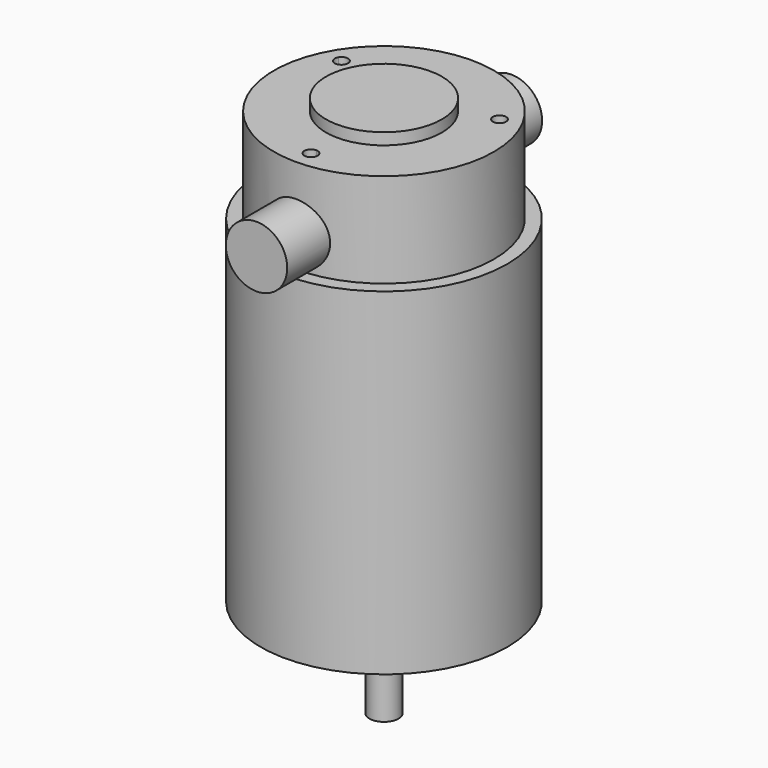
from build123d import *

# Parameters (mm, degrees)
F0_R      = 27.0383
F1_DEPTH  = 73.914
F2_R      = 24.13
F3_DEPTH  = 20.7264
F4_R      = 12.7
F5_DEPTH  = 2.54
F6_R      = 12.7
F6_R_2    = 4.699
F7_DEPTH  = 2.54
F8_R      = 3.175
F9_DEPTH  = 21.59
F10_R     = 6.731
F11_DEPTH = 34.925
F13_DEPTH = 6.35
F15_DEPTH = 12.7


with BuildPart() as f1:
    # F0 (on Top) → F1 (new body)
    with BuildSketch(Plane.XY):
        Circle(F0_R)
    extrude(amount=F1_DEPTH)

    # F2 (on face) → F3 (join)
    with BuildSketch(Plane.XY.offset(73.914)):
        Circle(F2_R)
    extrude(amount=F3_DEPTH)

    # F4 (on face) → F5 (join)
    with BuildSketch(Plane.XY.offset(94.6404)):
        Circle(F4_R)
    extrude(amount=F5_DEPTH)

    # F6 (on face) → F7 (join)
    with BuildSketch(Plane(origin=(0, 0, 0), x_dir=(1, 0, 0), z_dir=(0, 0, -1))):
        Circle(F6_R)
        Circle(F6_R_2, mode=Mode.SUBTRACT)
    extrude(amount=F7_DEPTH)

    # F8 (on face) → F9 (join)
    with BuildSketch(Plane(origin=(0, 0, 0), x_dir=(1, 0, 0), z_dir=(0, 0, -1))):
        Circle(F8_R)
    extrude(amount=F9_DEPTH)

    # F10 (on Front) → F11 (join, symmetric)
    with BuildSketch(Plane.XZ):
        with Locations((0, 80.772)):
            Circle(F10_R)
    extrude(amount=F11_DEPTH, both=True)

    # F12 (on face) → F13 (cut)
    with BuildSketch(Plane.XY.offset(94.6404)):
        with BuildLine():
            ThreePointArc((-15.8748731392, 10.00125), (-16.9479549257, 11.3997174113), (-18.5765047188, 10.72515))
            Line((-18.5765047188, 10.72515), (-16.0688415596, 9.27735))
            ThreePointArc((-16.0688415596, 9.27735), (-15.9242057279, 9.6265317865), (-15.8748731392, 10.00125))
        make_face()
        with BuildLine():
            Line((-16.0688415596, 9.27735), (-18.5765047188, 10.72515))
            ThreePointArc((-18.5765047188, 10.72515), (-18.0465731392, 8.7474184204), (-16.0688415596, 9.27735))
        make_face()
        with BuildLine():
            Line((0, -18.5547), (0, -21.4503))
            ThreePointArc((0, -21.4503), (1.0237491978, -21.0262491978), (1.4478, -20.0025))
            ThreePointArc((1.4478, -20.0025), (1.0237491978, -18.9787508022), (0, -18.5547))
        make_face()
        with BuildLine():
            ThreePointArc((0, -18.5547), (-1.4478, -20.0025), (0, -21.4503))
            Line((0, -21.4503), (0, -18.5547))
        make_face()
        with BuildLine():
            Line((16.0688415596, 9.27735), (18.5765047188, 10.72515))
            ThreePointArc((18.5765047188, 10.72515), (16.5987731392, 11.2550815796), (16.0688415596, 9.27735))
        make_face()
        with BuildLine():
            ThreePointArc((18.7704731392, 10.00125), (18.7211405505, 10.3759682135), (18.5765047188, 10.72515))
            Line((18.5765047188, 10.72515), (16.0688415596, 9.27735))
            ThreePointArc((16.0688415596, 9.27735), (17.6973913527, 8.6027825887), (18.7704731392, 10.00125))
        make_face()
    extrude(amount=-F13_DEPTH, mode=Mode.SUBTRACT)

    # F14 (on face) → F15 (cut)
    with BuildSketch(Plane(origin=(0, 0, 0), x_dir=(1, 0, 0), z_dir=(0, 0, -1))):
        with BuildLine():
            ThreePointArc((14.7363675327, 13.2666150431), (13.3965175327, 14.6064650431), (12.0566675327, 13.2666150431))
            Line((12.0566675327, 13.2666150431), (13.3965175327, 13.2666150431))
            Line((13.3965175327, 13.2666150431), (13.3965175327, 11.9267650431))
            ThreePointArc((13.3965175327, 11.9267650431), (14.3439345535, 12.3191980223), (14.7363675327, 13.2666150431))
        make_face()
        with BuildLine():
            Line((13.3965175327, 13.2666150431), (12.0566675327, 13.2666150431))
            ThreePointArc((12.0566675327, 13.2666150431), (12.4491005119, 12.3191980223), (13.3965175327, 11.9267650431))
            Line((13.3965175327, 11.9267650431), (13.3965175327, 13.2666150431))
        make_face()
        with BuildLine():
            ThreePointArc((14.7363675327, -13.6573849569), (14.3439345535, -12.7099679361), (13.3965175327, -12.3175349569))
            Line((13.3965175327, -12.3175349569), (13.3965175327, -13.6573849569))
            Line((13.3965175327, -13.6573849569), (12.0566675327, -13.6573849569))
            ThreePointArc((12.0566675327, -13.6573849569), (13.3965175327, -14.9972349569), (14.7363675327, -13.6573849569))
        make_face()
        with BuildLine():
            Line((13.3965175327, -13.6573849569), (13.3965175327, -12.3175349569))
            ThreePointArc((13.3965175327, -12.3175349569), (12.4491005119, -12.7099679361), (12.0566675327, -13.6573849569))
            Line((12.0566675327, -13.6573849569), (13.3965175327, -13.6573849569))
        make_face()
        with BuildLine():
            Line((-12.1812824673, 13.2666150431), (-13.5274824673, 13.2666150431))
            Line((-13.5274824673, 13.2666150431), (-13.5274824673, 11.9204150431))
            ThreePointArc((-13.5274824673, 11.9204150431), (-12.5755753185, 12.3147078943), (-12.1812824673, 13.2666150431))
        make_face()
        with BuildLine():
            Line((-13.5274824673, 11.9204150431), (-13.5274824673, 13.2666150431))
            Line((-13.5274824673, 13.2666150431), (-12.1812824673, 13.2666150431))
            ThreePointArc((-12.1812824673, 13.2666150431), (-14.4793896162, 14.2185221919), (-13.5274824673, 11.9204150431))
        make_face()
        with BuildLine():
            ThreePointArc((-12.1876324673, -13.6573849569), (-12.5800654465, -12.7099679361), (-13.5274824673, -12.3175349569))
            Line((-13.5274824673, -12.3175349569), (-13.5274824673, -13.6573849569))
            Line((-13.5274824673, -13.6573849569), (-12.1876324673, -13.6573849569))
        make_face()
        with BuildLine():
            Line((-13.5274824673, -13.6573849569), (-13.5274824673, -12.3175349569))
            ThreePointArc((-13.5274824673, -12.3175349569), (-14.4748994881, -14.6048019777), (-12.1876324673, -13.6573849569))
            Line((-12.1876324673, -13.6573849569), (-13.5274824673, -13.6573849569))
        make_face()
    extrude(amount=-F15_DEPTH, mode=Mode.SUBTRACT)


solid = f1.part
